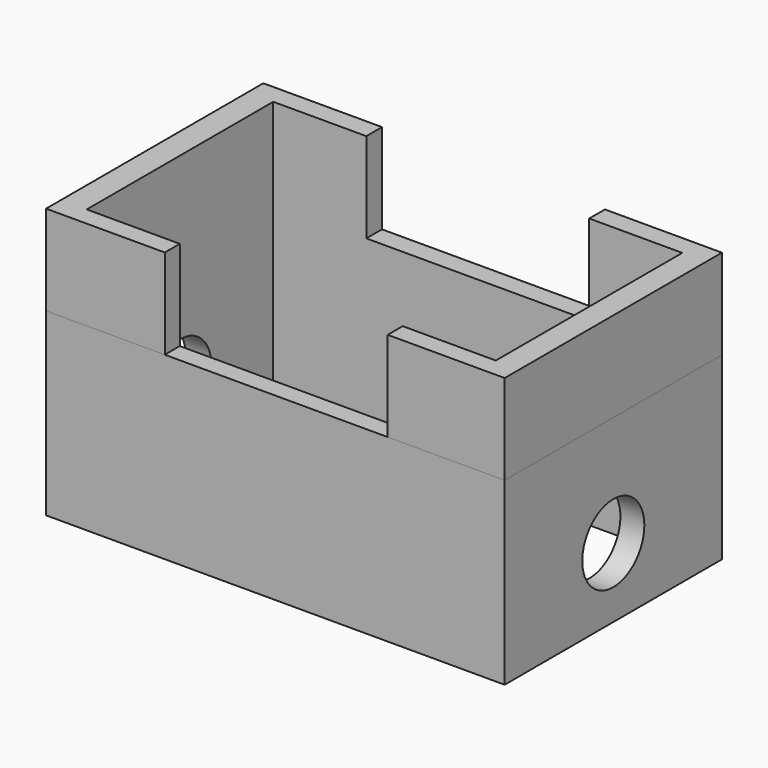
from build123d import *

# Parameters (mm, degrees)
F0_W     = 129.413765
F0_H     = 76.636083
F0_W_2   = 115.436122
F0_H_2   = 65.791356
F1_DEPTH = 50.8
F3_DEPTH = 25.4
F4_R     = 10.948332
F5_DEPTH = 190.246


with BuildPart() as f1:
    # F0 (on Top) → F1 (new body)
    with BuildSketch(Plane.XY):
        with Locations((5.542861, -7.109322)):
            Rectangle(F0_W, F0_H)
        with Locations((5.783856, -7.229819)):
            Rectangle(F0_W_2, F0_H_2, mode=Mode.SUBTRACT)
    extrude(amount=F1_DEPTH)

    # F2 (on face) → F3 (join)
    with BuildSketch(Plane.XY.offset(50.8)):
        Polygon((-25.665859, 25.665859), (-25.665859, 31.20872), (-59.164021, 31.20872), (-59.164021, -45.427363), (-25.665859, -45.427363), (-25.665859, -40.125497), (-51.934205, -40.125497), (-51.934205, 25.665859), align=None)
        Polygon((70.249744, 31.20872), (37.233572, 31.20872), (37.233572, 25.665859), (63.501917, 25.665859), (63.501917, -40.125497), (37.233572, -40.125497), (37.233572, -45.427363), (70.249744, -45.427363), align=None)
    extrude(amount=F3_DEPTH)

    # F4 (on face) → F5 (cut)
    with BuildSketch(Plane.YZ.offset(70.249744)):
        with Locations((-7.109322, 19.609161)):
            Circle(F4_R)
    extrude(amount=-F5_DEPTH, mode=Mode.SUBTRACT)


solid = f1.part
